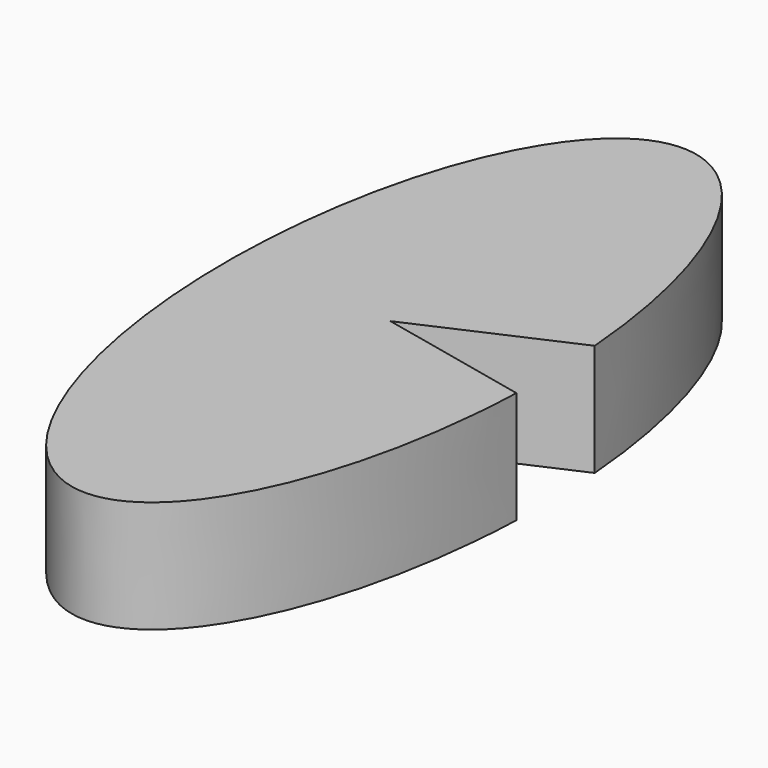
from build123d import *

# Parameters (mm, degrees)
F2_DEPTH = 25


with BuildPart() as f2:
    # F1 (on face) → F2 (new body)
    with BuildSketch(Plane.XY):
        with BuildLine():
            add(Edge.make_bspline(
                [(-106.737718, -124.941751), (-74.300951, -124.941751), (-71.573485, -48.596506)],
                knots=[0, 0, 0, 1.45224, 1.45224, 1.45224], degree=2, weights=[1, 0.653303, 0.787401]))
            Line((-71.573485, -48.596506), (-105.682224, -41.109547))
            Line((-105.682224, -41.109547), (-72.061377, -26.120456))
            add(Edge.make_bspline(
                [(-72.061377, -26.120456), (-73.175177, -12.188887), (-76.176367, 0.089444), (-106.737718, 125.12064), (-137.299069, 0.089444), (-167.86042, -124.941751), (-106.737718, -124.941751)],
                knots=[1.71983, 1.71983, 1.71983, 2.094395, 2.094395, 4.18879, 4.18879, 6.283185, 6.283185, 6.283185], degree=2, weights=[0.853143, 0.910579, 1, 0.5, 1, 0.5, 1]))
        make_face()
    extrude(amount=F2_DEPTH)


solid = f2.part
